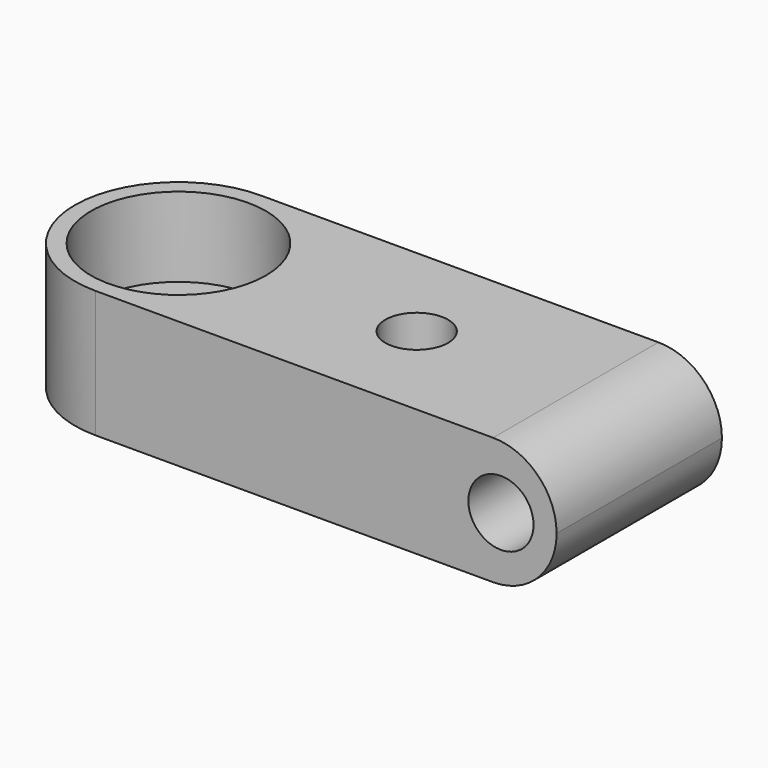
from build123d import *

# Parameters (mm, degrees)
SKETCH002_R  = 11
PAD002_DEPTH = 10
SKETCH001_R  = 4.1
PAD001_DEPTH = 26
SKETCH_R     = 7
SKETCH_R_2   = 3.95
PAD_DEPTH    = 16
FILLET_R     = 7.99


with BuildPart() as pad002:
    # Sketch002 → Pad002 (new body)
    with BuildSketch(Plane.XY.offset(16)):
        with Locations((-29.971518, 0)):
            Circle(SKETCH002_R)
    extrude(amount=-PAD002_DEPTH)


with BuildPart() as cutblock:
    # Sketch001 → Pad001 (new body)
    with BuildSketch(Plane.XZ.offset(13)):
        with Locations((21, 8)):
            Circle(SKETCH001_R)
    extrude(amount=-PAD001_DEPTH)

    # Fusion: union Pad002
    add(pad002.part)


with BuildPart() as fillet_body:
    # Sketch → Pad (new body)
    with BuildSketch(Plane.XY):
        with BuildLine():
            ThreePointArc((-30, 13), (-43, 0), (-30, -13))
            Line((-30, -13), (28, -13))
            Line((28, 13), (28, -13))
            Line((-30, 13), (28, 13))
        make_face()
        with Locations((-30, 0)):
            Circle(SKETCH_R, mode=Mode.SUBTRACT)
        Circle(SKETCH_R_2, mode=Mode.SUBTRACT)
    extrude(amount=PAD_DEPTH)

    # Cut: cut CutBlock
    add(cutblock.part, mode=Mode.SUBTRACT)

    # Fillet
    fillet_edges = [fillet_body.edges().sort_by_distance(p)[0] for p in [
        (28, 0, 16),
        (28, 0, 0),
    ]]
    fillet(fillet_edges, radius=FILLET_R)


solid = fillet_body.part
